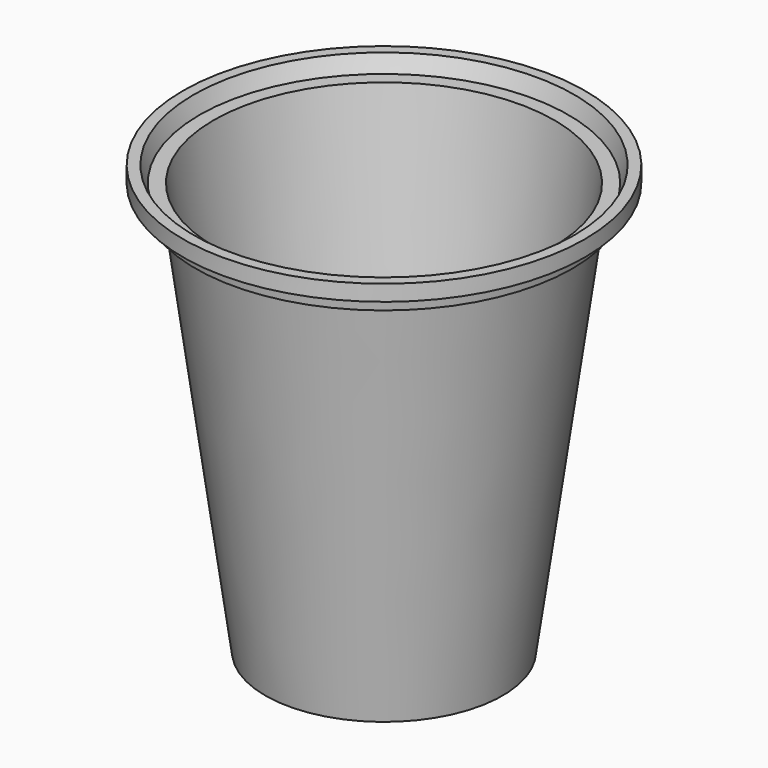
from build123d import *


with BuildPart() as f2:
    # F0 (on Front) → F2 (revolve)
    with BuildSketch(Plane.XZ):
        Polygon((-32.669898, 28.997708), (-30.062929, 28.997708), (-20.59429, -40.123358), (-19.545071, -40.178558), (-19.82511, -38.134273), (0, -38.134273), (0, -36.726544), (-18.571049, -36.726544), (-19.82511, -36.726544), (-29.543465, 31.448782), (-32.000136, 31.448782), (-33.005662, 34.215268), (-34.860291, 34.215268), (-34.860291, 31.448782), (-33.005662, 31.448782), align=None)
    revolve(axis=Axis((0, 0, -5.562825), (0, 0, -1)))


solid = f2.part
